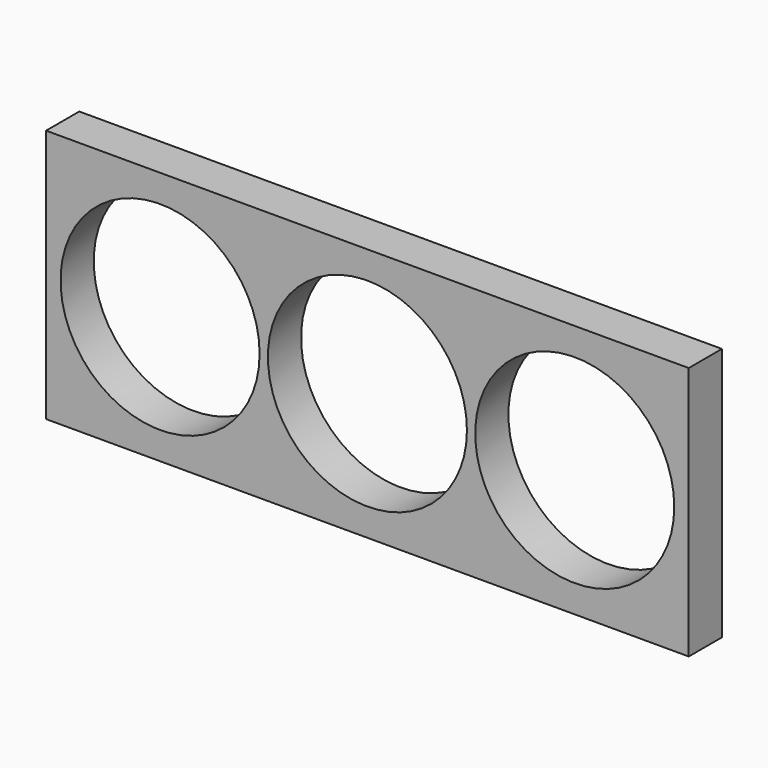
from build123d import *

# Parameters (mm, degrees)
F0_W     = 196.844284
F0_H     = 77.783168
F0_R     = 30.48
F1_DEPTH = 12.7


with BuildPart() as f1:
    # F0 (on Front) → F1 (new body)
    with BuildSketch(Plane.XZ):
        with Locations((63.5, 0)):
            Rectangle(F0_W, F0_H)
        Circle(F0_R, mode=Mode.SUBTRACT)
        with Locations((63.5, 0)):
            Circle(F0_R, mode=Mode.SUBTRACT)
        with Locations((127, 0)):
            Circle(F0_R, mode=Mode.SUBTRACT)
    extrude(amount=-F1_DEPTH)


solid = f1.part
